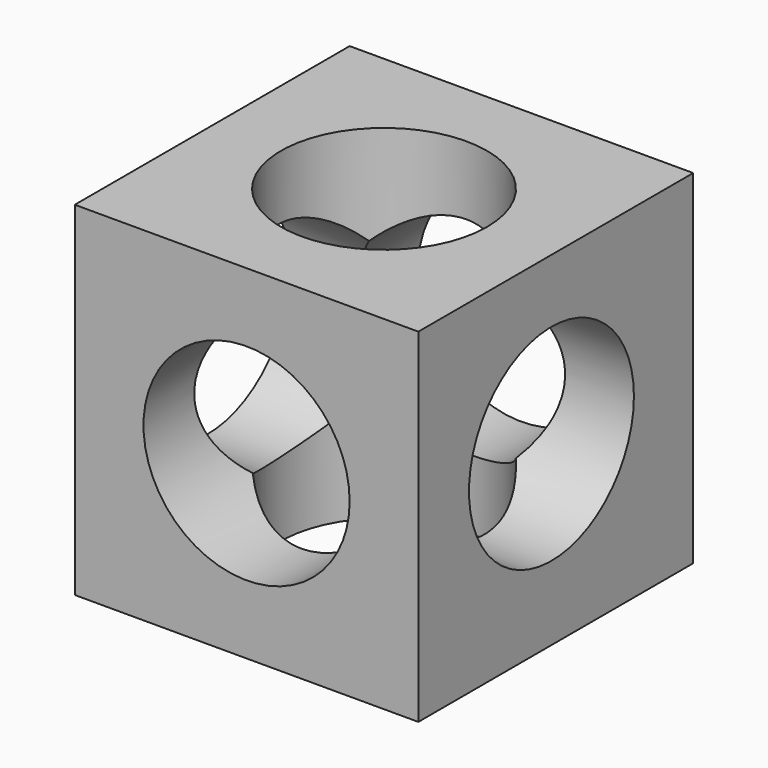
from build123d import *

# Parameters (mm, degrees)
F0_W     = 127
F0_H     = 127
F1_DEPTH = 127
F2_R     = 38.1
F3_DEPTH = 127.001
F4_R     = 38.1
F5_DEPTH = 127.001
F6_R     = 38.1
F7_DEPTH = 127.001


with BuildPart() as f1:
    # F0 (on Front) → F1 (new body)
    with BuildSketch(Plane.XZ):
        with Locations((12.366533, -18.120013)):
            Rectangle(F0_W, F0_H)
    extrude(amount=F1_DEPTH)

    # F2 (on face) → F3 (cut, through all)
    with BuildSketch(Plane.XZ.offset(127)):
        with Locations((12.366533, -18.120013)):
            Circle(F2_R)
    extrude(amount=-F3_DEPTH, mode=Mode.SUBTRACT)

    # F4 (on face) → F5 (cut, through all)
    with BuildSketch(Plane.YZ.offset(75.866533)):
        with Locations((-65.501377, -16.118636)):
            Circle(F4_R)
    extrude(amount=-F5_DEPTH, mode=Mode.SUBTRACT)

    # F6 (on face) → F7 (cut, through all)
    with BuildSketch(Plane.XY.offset(45.379987)):
        with Locations((12.366533, -63.5)):
            Circle(F6_R)
    extrude(amount=-F7_DEPTH, mode=Mode.SUBTRACT)


solid = f1.part
